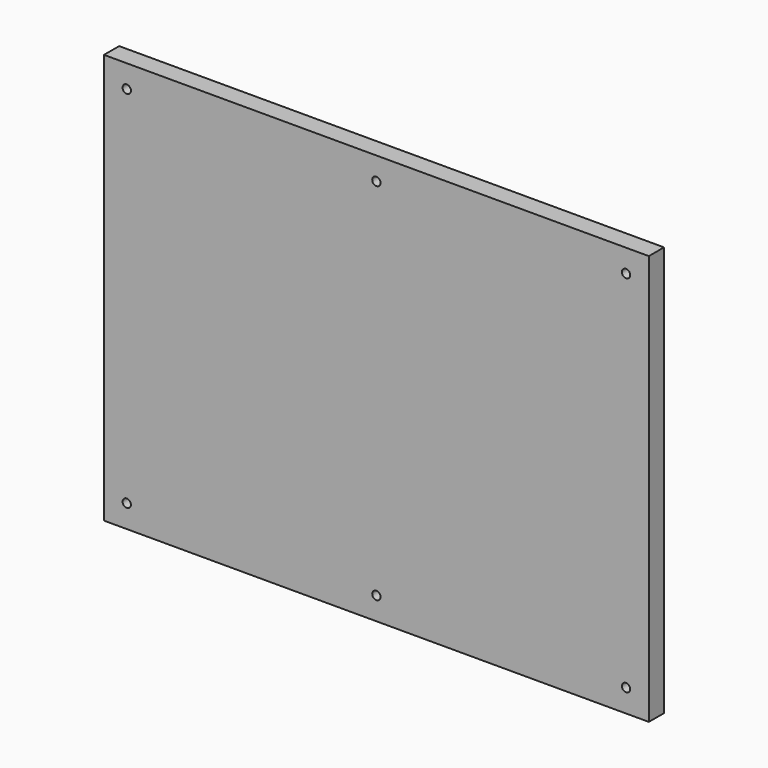
from build123d import *

# Parameters (mm, degrees)
F0_W     = 287
F0_H     = 216
F1_DEPTH = 10
F2_D     = 4.4


with BuildPart() as f1:
    # F0 (on Front) → F1 (new body)
    with BuildSketch(Plane.XZ):
        Rectangle(F0_W, F0_H)
    extrude(amount=F1_DEPTH)

    # F2 (through all)
    with Locations(Plane(origin=(0, 0, 0), x_dir=(1, 0, 0), z_dir=(0, 1, 0))):
        with Locations((0, -96), (-131.5, -96), (131.5, -96), (131.5, 96), (-131.5, 96), (0, 96)):
            Hole(F2_D / 2)


solid = f1.part
